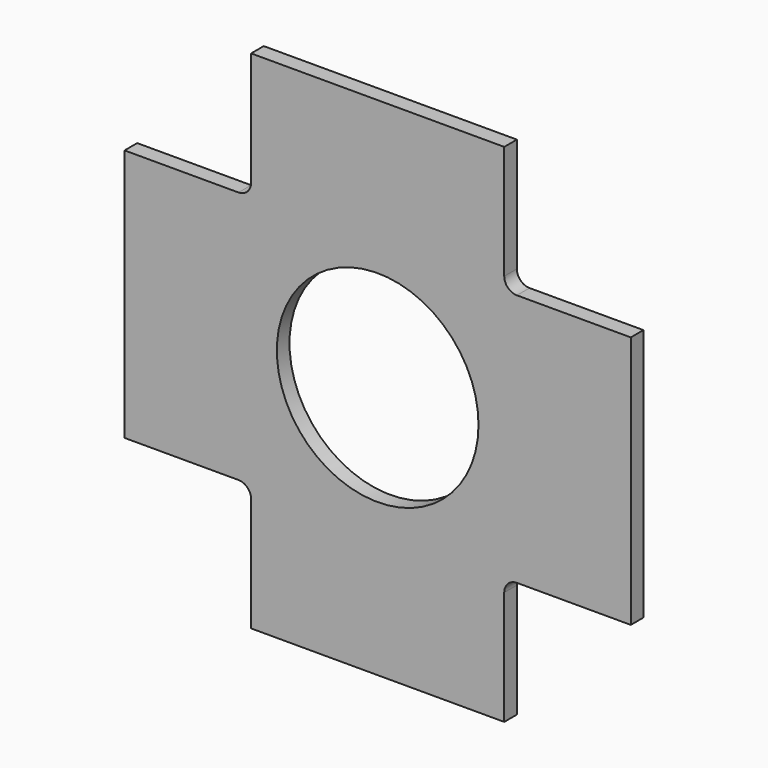
from build123d import *

# Parameters (mm, degrees)
F0_R     = 40.472178
F1_DEPTH = 6.35
F2_R     = 5.08


with BuildPart() as f1:
    # F0 (on Front) → F1 (new body)
    with BuildSketch(Plane.XZ):
        Polygon((50.8, 50.8), (50.8, 101.6), (-50.8, 101.6), (-50.8, 50.8), (-101.6, 50.8), (-101.6, -50.8), (-50.8, -50.8), (-50.8, -101.6), (50.8, -101.6), (50.8, -50.8), (101.6, -50.8), (101.6, 50.8), align=None)
        Circle(F0_R, mode=Mode.SUBTRACT)
    extrude(amount=F1_DEPTH)

    # F2
    f2_edges = [f1.edges().sort_by_distance(p)[0] for p in [
        (50.8, -3.175, 50.8),
        (-50.8, -3.175, 50.8),
        (-50.8, -3.175, -50.8),
        (50.8, -3.175, -50.8),
    ]]
    fillet(f2_edges, radius=F2_R)


solid = f1.part
